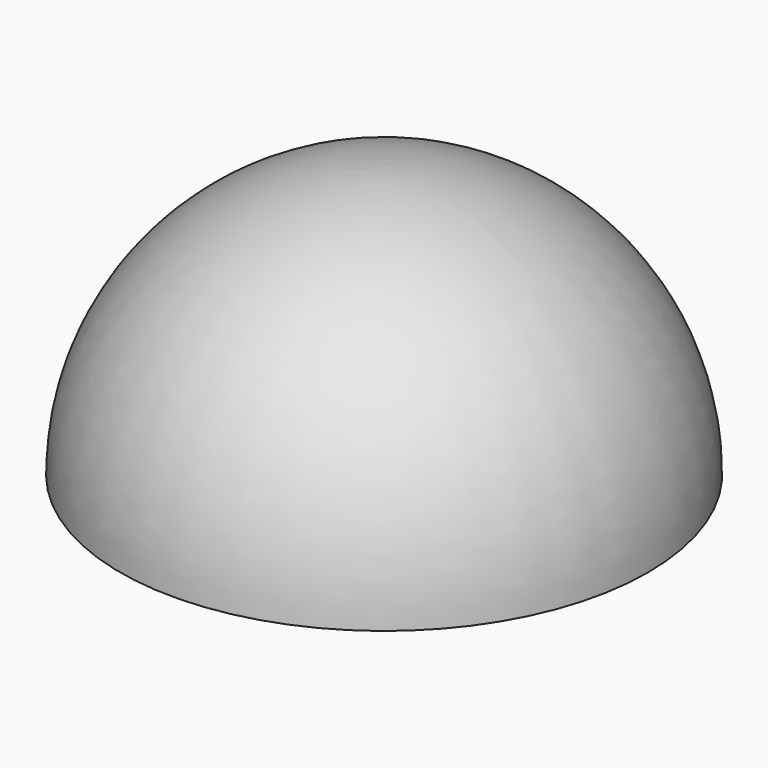
from build123d import *

# Parameters (mm, degrees)
F0_W = 70
F0_H = 20


with BuildPart() as f1:
    # F0 (on Front) → F1 (revolve)
    with BuildSketch(Plane.XZ):
        with Locations((35, 230)):
            Rectangle(F0_W, F0_H)
        Polygon((118.743421, 220), (70, 220), (0, 220), (0, 200), (118.743421, 200), align=None)
        Polygon((173.493516, 180), (150, 180), (0, 180), (0, 160), (173.493516, 160), align=None)
        Polygon((150, 200), (118.743421, 200), (0, 200), (0, 180), (150, 180), align=None)
        Polygon((0, 160), (0, 140), (192.093727, 140), (192.093727, 160), (173.493516, 160), align=None)
        Polygon((0, 140), (0, 120), (207.123152, 120), (207.123152, 140), (192.093727, 140), align=None)
        Polygon((0, 120), (0, 100), (219.317122, 100), (219.317122, 120), (207.123152, 120), align=None)
        Polygon((0, 100), (0, 80), (229.128785, 80), (229.128785, 100), (219.317122, 100), align=None)
        Polygon((0, 80), (0, 60), (236.854386, 60), (236.854386, 80), (229.128785, 80), align=None)
        Polygon((0, 60), (0, 40), (242.693222, 40), (242.693222, 60), (236.854386, 60), align=None)
        Polygon((0, 40), (0, 20), (246.779254, 20), (246.779254, 40), (242.693222, 40), align=None)
        Polygon((246.779254, 20), (0, 20), (0, 0), (249.198716, 0), (249.198716, 20), align=None)
    revolve(axis=Axis((0, 0, 120), (0, 0, 1)))


with BuildPart() as f3:
    # F2 (on Front) → F3 (revolve)
    with BuildSketch(Plane.XZ):
        with BuildLine():
            Line((0, 0), (253.118017, 0))
            ThreePointArc((253.118017, 0), (178.981467, 178.981467), (0, 253.118017))
            Line((0, 253.118017), (0, 0))
        make_face()
    revolve(axis=Axis((0, 0, 126.559009), (0, 0, -1)))


solid = Compound([f1.part, f3.part])
